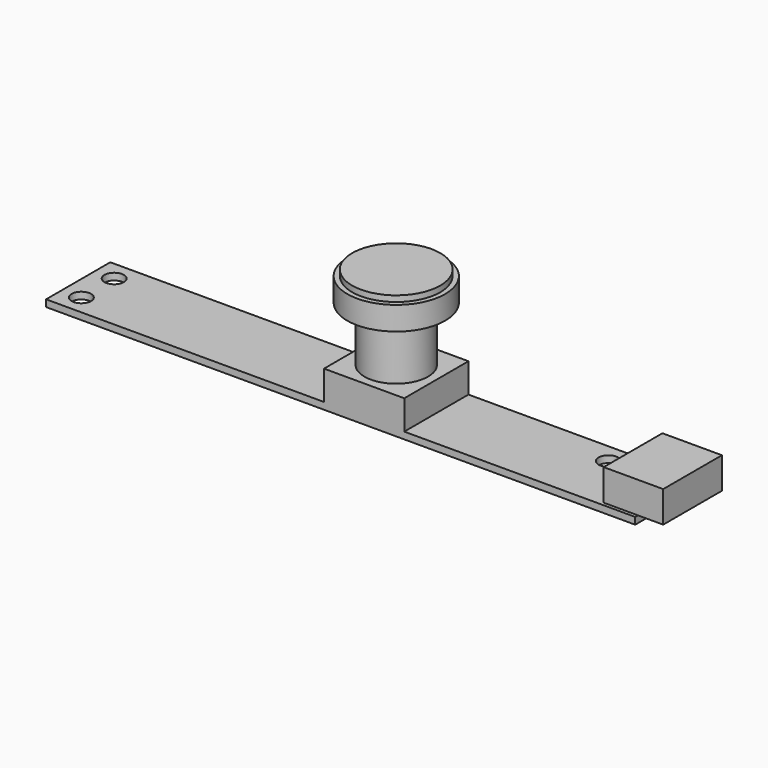
from build123d import *

# Parameters (mm, degrees)
SKETCH_W     = 60.2
SKETCH_H     = 8.2
PAD_DEPTH    = 0.7
SKETCH001_R  = 1
POCKET_DEPTH = 0.701
SKETCH002_W  = 8.2
SKETCH002_H  = 8.2
PAD001_DEPTH = 3
SKETCH003_R  = 3.25
PAD002_DEPTH = 5.6
SKETCH004_R  = 5
PAD003_DEPTH = 2.4
SKETCH005_R  = 4.5
PAD004_DEPTH = 0.6
SKETCH006_W  = 6.08
SKETCH006_H  = 7.5
PAD005_DEPTH = 3.2


with BuildPart() as part:
    # Sketch → Pad (new body)
    with BuildSketch(Plane.XY):
        Rectangle(SKETCH_W, SKETCH_H)
    extrude(amount=PAD_DEPTH)

    # Sketch001 → Pocket (cut, through all)
    with BuildSketch(Plane.XY.offset(0.7)):
        with Locations((-28.1, 2.1)):
            Circle(SKETCH001_R)
        with Locations((-28.1, -2.1)):
            Circle(SKETCH001_R)
        with Locations((22.4, 2.1)):
            Circle(SKETCH001_R)
    extrude(amount=-POCKET_DEPTH, mode=Mode.SUBTRACT)

    # Sketch002 → Pad001 (new body)
    with BuildSketch(Plane.XY.offset(0.7)):
        with Locations((2.4, 0)):
            Rectangle(SKETCH002_W, SKETCH002_H)
    extrude(amount=PAD001_DEPTH)

    # Sketch003 → Pad002 (new body)
    with BuildSketch(Plane.XY.offset(3.7)):
        with Locations((2.4, 0)):
            Circle(SKETCH003_R)
    extrude(amount=PAD002_DEPTH)

    # Sketch004 → Pad003 (new body)
    with BuildSketch(Plane.XY.offset(9.3)):
        with Locations((2.4, 0)):
            Circle(SKETCH004_R)
    extrude(amount=PAD003_DEPTH)

    # Sketch005 → Pad004 (new body)
    with BuildSketch(Plane.XY.offset(11.7)):
        with Locations((2.4, 0)):
            Circle(SKETCH005_R)
    extrude(amount=PAD004_DEPTH)

    # Sketch006 → Pad005 (new body)
    with BuildSketch(Plane.XY.offset(0.7)):
        with Locations((29.64, 0)):
            Rectangle(SKETCH006_W, SKETCH006_H)
    extrude(amount=PAD005_DEPTH)


solid = part.part
